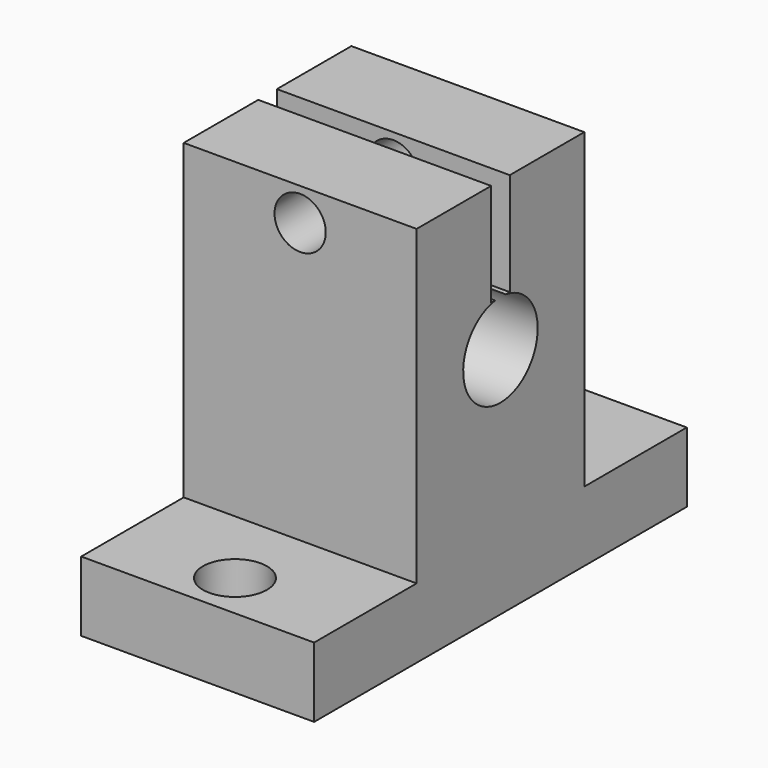
from build123d import *

# Parameters (mm, degrees)
SKETCH008_W              = 40
SKETCH008_H              = 20
SKETCH008_R              = 2.75
PAD005_DEPTH             = 6
SKETCH009_W              = 18
SKETCH009_H              = 20
PAD006_DEPTH             = 26.8
SKETCH010_R              = 4
POCKET001_DEPTH          = 20.001
SKETCH011_W              = 2
SKETCH011_H              = 8.8415096984
POCKET002_DEPTH          = 20.001
SKETCH012_R              = 2.2
POCKET003_DEPTH          = 29.001
CLONE011_PLACEMENT_ANGLE = 90


with BuildPart() as part:
    # Sketch008 → Pad005 (new body)
    with BuildSketch(Plane.XY):
        Rectangle(SKETCH008_W, SKETCH008_H)
        with Locations((-16, 0)):
            Circle(SKETCH008_R, mode=Mode.SUBTRACT)
        with Locations((16, 0)):
            Circle(SKETCH008_R, mode=Mode.SUBTRACT)
    extrude(amount=PAD005_DEPTH)

    # Sketch009 (on Face8 of Pad005) → Pad006 (join)
    with BuildSketch(Plane.XY.offset(6)):
        Rectangle(SKETCH009_W, SKETCH009_H)
    extrude(amount=PAD006_DEPTH)

    # Sketch010 (on Face14 of Pad006) → Pocket001 (cut, through all)
    with BuildSketch(Plane.XZ.offset(10)):
        with Locations((0, 20)):
            Circle(SKETCH010_R)
    extrude(amount=-POCKET001_DEPTH, mode=Mode.SUBTRACT)

    # Sketch011 (on Face15 of Pocket001) → Pocket002 (cut, through all)
    with BuildSketch(Plane.XZ.offset(10)):
        with Locations((0, 28.3792451508)):
            Rectangle(SKETCH011_W, SKETCH011_H)
    extrude(amount=-POCKET002_DEPTH, mode=Mode.SUBTRACT)

    # Sketch012 (on Face12 of Pocket002) → Pocket003 (cut, through all)
    with BuildSketch(Plane.YZ.offset(9)):
        with Locations((0, 30)):
            Circle(SKETCH012_R)
    extrude(amount=-POCKET003_DEPTH, mode=Mode.SUBTRACT)


with BuildPart() as part_1:
    # Clone011 placement: moved
    add(part.part.moved(Location((10, -100, 10))).rotate(Axis((10, -100, 10), (0, 0, 1)), CLONE011_PLACEMENT_ANGLE))


with BuildPart() as part_2:
    # Clone021 placement: moved
    add(part_1.part.moved(Location((-480, 0, 0))))


solid = part_2.part
